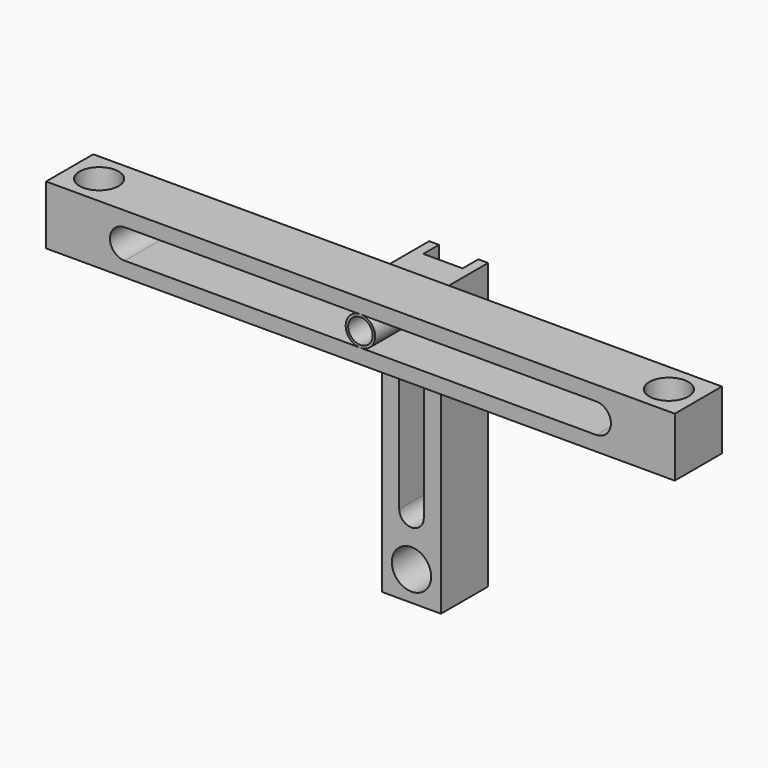
from build123d import *

# Parameters (mm, degrees)
F0_W      = 19.05
F0_H      = 92.075
F0_R      = 6.35
F1_DEPTH  = 19.05
F3_DEPTH  = 6.35
F4_R      = 7.9375
F4_R_2    = 3.96875
F5_DEPTH  = 1.5875
F6_R      = 4.7625
F6_R_2    = 3.96875
F7_DEPTH  = 19.05
F8_W      = 203.2
F8_H      = 19.05
F9_DEPTH  = 19.05
F10_R     = 6.35
F11_DEPTH = 19.05


with BuildPart() as f1:
    # F0 (on Front) → F1 (new body)
    with BuildSketch(Plane.XZ):
        with Locations((0, 36.5125)):
            Rectangle(F0_W, F0_H)
        Circle(F0_R, mode=Mode.SUBTRACT)
        with BuildLine():
            ThreePointArc((-3.96875, 76.2), (0, 80.16875), (3.96875, 76.2))
            Line((3.96875, 76.2), (3.96875, 15.875))
            ThreePointArc((3.96875, 15.875), (0, 11.90625), (-3.96875, 15.875))
            Line((-3.96875, 15.875), (-3.96875, 76.2))
        make_face(mode=Mode.SUBTRACT)
    extrude(amount=F1_DEPTH)

    # F2 (on face) → F3 (cut)
    with BuildSketch(Plane(origin=(0, 0, 0), x_dir=(-1, 0, 0), z_dir=(0, 1, 0))):
        with BuildLine():
            ThreePointArc((-6.35, 15.875), (0, 9.525), (6.35, 15.875))
            Line((6.35, 15.875), (6.35, 82.55))
            Line((6.35, 82.55), (-6.35, 82.55))
            Line((-6.35, 82.55), (-6.35, 15.875))
        make_face()
    extrude(amount=-F3_DEPTH, mode=Mode.SUBTRACT)


with BuildPart() as f5:
    # F4 (on face) → F5 (new body)
    with BuildSketch(Plane.XZ.offset(19.05)):
        with Locations((0, 76.2)):
            Circle(F4_R)
        with Locations((0, 76.2)):
            Circle(F4_R_2, mode=Mode.SUBTRACT)
    extrude(amount=F5_DEPTH)


with BuildPart() as f7:
    # F6 (on face) → F7 (new body)
    with BuildSketch(Plane.XZ.offset(20.6375)):
        with Locations((0, 76.2)):
            Circle(F6_R)
        with Locations((0, 76.2)):
            Circle(F6_R_2, mode=Mode.SUBTRACT)
    extrude(amount=F7_DEPTH)


with BuildPart() as f9:
    # F8 (on face) → F9 (new body)
    with BuildSketch(Plane.XZ.offset(20.6375)):
        with Locations((0, 76.2)):
            Rectangle(F8_W, F8_H)
        with BuildLine():
            ThreePointArc((-76.2, 71.4375), (-80.9625, 76.2), (-76.2, 80.9625))
            Line((-76.2, 80.9625), (76.2, 80.9625))
            ThreePointArc((76.2, 80.9625), (80.9625, 76.2), (76.2, 71.4375))
            Line((76.2, 71.4375), (-76.2, 71.4375))
        make_face(mode=Mode.SUBTRACT)
    extrude(amount=F9_DEPTH)

    # F10 (on face) → F11 (cut, through all)
    with BuildSketch(Plane.XY.offset(85.725)):
        with Locations((-92.075, -30.1625)):
            Circle(F10_R)
        with Locations((92.075, -30.1625)):
            Circle(F10_R)
    extrude(amount=-F11_DEPTH, mode=Mode.SUBTRACT)


solid = Compound([f1.part, f5.part, f7.part, f9.part])
